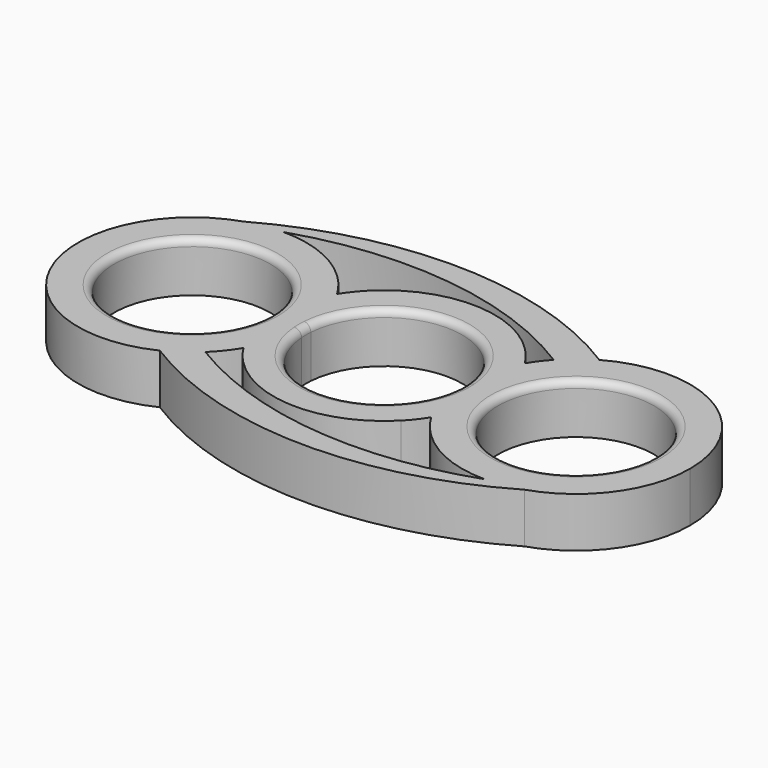
from build123d import *

# Parameters (mm, degrees)
F0_R     = 10.95
F1_DEPTH = 7
F2_R     = 1


with BuildPart() as f1:
    # F0 (on Top) → F1 (new body)
    with BuildSketch(Plane.XY):
        with BuildLine():
            ThreePointArc((-21.5356414958, -4.8959657474), (-23.8783924252, 3.2977389637), (-21.5356414958, 11.4914436749))
            ThreePointArc((-21.5356414958, 11.4914436749), (-22.6993144087, 13.1854483171), (-24.0705316121, 14.7163140059))
            ThreePointArc((-24.0705316121, 14.7163140059), (-24.150511625, 14.7916467191), (-24.2283924252, 14.8691476939))
            ThreePointArc((-24.2283924252, 14.8691476939), (-29.3261886183, 18.1493809552), (-35.2783924252, 19.2977389637))
            ThreePointArc((-35.2783924252, 19.2977389637), (-37.8102942344, 19.0961399344), (-40.2783924252, 18.4964231173))
            ThreePointArc((-40.2783924252, 18.4964231173), (-50.1108366069, -2.7021443349), (-28.305201053, -11.1027680443))
            ThreePointArc((-28.305201053, -11.1027680443), (-26.1407697818, -9.8363332314), (-24.200803492, -8.2472609682))
            ThreePointArc((-24.200803492, -8.2472609682), (-24.1495735944, -8.1967605248), (-24.0974438172, -8.14718953))
            ThreePointArc((-24.0974438172, -8.14718953), (-22.7109617539, -6.6047701285), (-21.5356414958, -4.8959657474))
        make_face()
        with Locations((-35.2783924252, 3.2977389637)):
            Circle(F0_R, mode=Mode.SUBTRACT)
        with BuildLine():
            ThreePointArc((-35.2783924252, 19.2977389637), (-13.6974768248, 21.3714318141), (6.7324567843, 14.1151288356))
            ThreePointArc((6.7324567843, 14.1151288356), (8.5674737327, 15.8243194809), (10.647013196, 17.2257956612))
            ThreePointArc((10.647013196, 17.2257956612), (-14.6417402019, 24.8328180176), (-40.2783924252, 18.4964231173))
            ThreePointArc((-40.2783924252, 18.4964231173), (-37.8102942344, 19.0961399344), (-35.2783924252, 19.2977389637))
        make_face()
        with BuildLine():
            ThreePointArc((-19.2986991166, 4.1035936434), (-8.3783924252, 14.2477389637), (2.5419142663, 4.1035936434))
            ThreePointArc((2.5419142663, 4.1035936434), (3.2081819329, 7.93443985), (4.7788566455, 11.4914436749))
            ThreePointArc((4.7788566455, 11.4914436749), (3.7989548826, 12.8874320009), (2.6716075748, 14.1673065724))
            ThreePointArc((2.6716075748, 14.1673065724), (-8.3783924252, 18.7977389637), (-19.4283924252, 14.1673065724))
            ThreePointArc((-19.4283924252, 14.1673065724), (-20.5557397329, 12.8874320009), (-21.5356414958, 11.4914436749))
            ThreePointArc((-21.5356414958, 11.4914436749), (-19.9649667832, 7.93443985), (-19.2986991166, 4.1035936434))
        make_face()
        with BuildLine():
            ThreePointArc((-19.2986991166, 2.4918842841), (-19.3283924252, 3.2977389637), (-19.2986991166, 4.1035936434))
            ThreePointArc((-19.2986991166, 4.1035936434), (-19.9649667832, 7.93443985), (-21.5356414958, 11.4914436749))
            ThreePointArc((-21.5356414958, 11.4914436749), (-23.8783924252, 3.2977389637), (-21.5356414958, -4.8959657474))
            ThreePointArc((-21.5356414958, -4.8959657474), (-19.9649667832, -1.3389619226), (-19.2986991166, 2.4918842841))
        make_face()
        with BuildLine():
            ThreePointArc((4.7788566455, -4.8959657474), (3.2081819329, -1.3389619226), (2.5419142663, 2.4918842841))
            ThreePointArc((2.5419142663, 2.4918842841), (-8.3783924252, -7.6522610363), (-19.2986991166, 2.4918842841))
            ThreePointArc((-19.2986991166, 2.4918842841), (-19.9649667832, -1.3389619226), (-21.5356414958, -4.8959657474))
            ThreePointArc((-21.5356414958, -4.8959657474), (-20.5557397329, -6.2919540734), (-19.4283924252, -7.571828645))
            ThreePointArc((-19.4283924252, -7.571828645), (-8.3783924252, -12.2022610363), (2.6716075748, -7.571828645))
            ThreePointArc((2.6716075748, -7.571828645), (3.7989548826, -6.2919540734), (4.7788566455, -4.8959657474))
        make_face()
        with BuildLine():
            ThreePointArc((2.5419142663, 4.1035936434), (2.5641817297, 3.7009397379), (2.5716075748, 3.2977389637))
            ThreePointArc((2.5716075748, 3.2977389637), (2.5641817297, 2.8945381895), (2.5419142663, 2.4918842841))
            ThreePointArc((2.5419142663, 2.4918842841), (3.2081819329, -1.3389619226), (4.7788566455, -4.8959657474))
            ThreePointArc((4.7788566455, -4.8959657474), (6.5244153739, -0.9632843526), (7.1216075748, 3.2977389637))
            ThreePointArc((7.1216075748, 3.2977389637), (6.5244153739, 7.5587622801), (4.7788566455, 11.4914436749))
            ThreePointArc((4.7788566455, 11.4914436749), (3.2081819329, 7.93443985), (2.5419142663, 4.1035936434))
        make_face()
        with BuildLine():
            ThreePointArc((6.7324567843, 14.1151288356), (5.6884305592, 12.8533429575), (4.7788566455, 11.4914436749))
            ThreePointArc((4.7788566455, 11.4914436749), (6.5244153739, 7.5587622801), (7.1216075748, 3.2977389637))
            ThreePointArc((7.1216075748, 3.2977389637), (6.5244153739, -0.9632843526), (4.7788566455, -4.8959657474))
            ThreePointArc((4.7788566455, -4.8959657474), (5.9425295584, -6.5899703896), (7.3137467617, -8.1208360785))
            ThreePointArc((7.3137467617, -8.1208360785), (7.3937267746, -8.1961687916), (7.4716075748, -8.2736697664))
            ThreePointArc((7.4716075748, -8.2736697664), (12.5694037679, -11.5539030277), (18.5216075748, -12.7022610363))
            ThreePointArc((18.5216075748, -12.7022610363), (21.0216075748, -12.5057416655), (23.4601952715, -11.9210110363))
            ThreePointArc((23.4601952715, -11.9210110363), (31.4641228471, -6.1092424026), (34.5216075748, 3.2977389637))
            ThreePointArc((34.5216075748, 3.2977389637), (26.584066565, 17.1178965255), (10.647013196, 17.2257956612))
            ThreePointArc((10.647013196, 17.2257956612), (8.5674737327, 15.8243194809), (6.7324567843, 14.1151288356))
        make_face()
        with Locations((18.5216075748, 3.2977389637)):
            Circle(F0_R, mode=Mode.SUBTRACT)
        with BuildLine():
            ThreePointArc((18.5216075748, -12.7022610363), (-3.3423713912, -15.2962408971), (-24.200803492, -8.2472609682))
            ThreePointArc((-24.200803492, -8.2472609682), (-26.1407697818, -9.8363332314), (-28.305201053, -11.1027680443))
            ThreePointArc((-28.305201053, -11.1027680443), (-2.5366521789, -18.7334401031), (23.4601952715, -11.9210110363))
            ThreePointArc((23.4601952715, -11.9210110363), (21.0216075748, -12.5057416655), (18.5216075748, -12.7022610363))
        make_face()
    extrude(amount=F1_DEPTH)

    # F2
    f2_edges = [f1.edges().sort_by_distance(p)[0] for p in [
        (7.571608, 3.297739, 7),
        (-19.298699, 2.491884, 7),
        (-46.228392, 3.297739, 7),
    ]]
    fillet(f2_edges, radius=F2_R)


solid = f1.part
